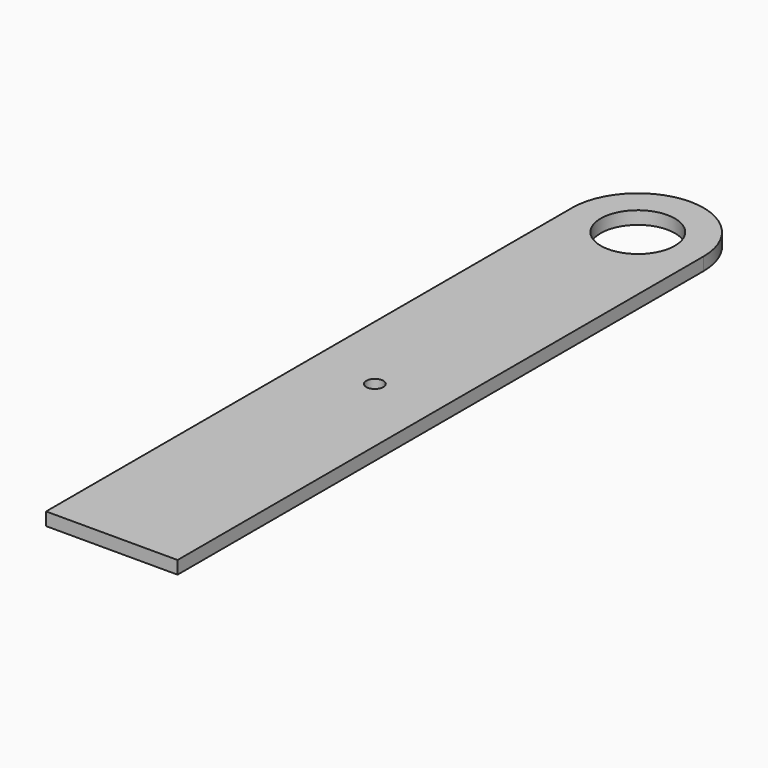
from build123d import *

# Parameters (mm, degrees)
F0_R     = 3.302
F0_R_2   = 14.3129
F1_DEPTH = 5


with BuildPart() as f1:
    # F0 (on Top) → F1 (new body)
    with BuildSketch(Plane.XY):
        with BuildLine():
            Line((-25.4, -127), (25.4, -127))
            Line((25.4, -127), (25.4, 127))
            ThreePointArc((25.4, 127), (0, 152.4), (-25.4, 127))
            Line((-25.4, 127), (-25.4, -127))
        make_face()
        Circle(F0_R, mode=Mode.SUBTRACT)
        with Locations((0, 127)):
            Circle(F0_R_2, mode=Mode.SUBTRACT)
    extrude(amount=F1_DEPTH)


solid = f1.part
